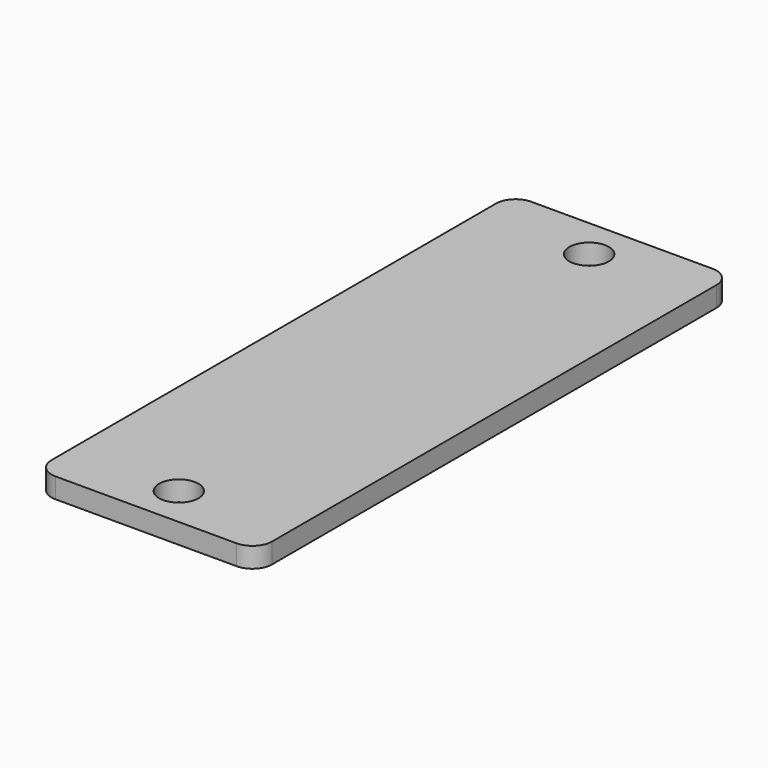
from build123d import *

# Parameters (mm, degrees)
F0_R     = 1.5875
F1_DEPTH = 1.6256


with BuildPart() as f1:
    # F0 (on Top) → F1 (new body)
    with BuildSketch(Plane.XY):
        with BuildLine():
            Line((-7.3025, -23.9776), (7.3025, -23.9776))
            ThreePointArc((7.3025, -23.9776), (8.425032, -23.512632), (8.89, -22.3901))
            Line((8.89, -22.3901), (8.89, 22.3901))
            ThreePointArc((8.89, 22.3901), (8.425032, 23.512632), (7.3025, 23.9776))
            Line((7.3025, 23.9776), (-7.3025, 23.9776))
            ThreePointArc((-7.3025, 23.9776), (-8.425032, 23.512632), (-8.89, 22.3901))
            Line((-8.89, 22.3901), (-8.89, -22.3901))
            ThreePointArc((-8.89, -22.3901), (-8.425032, -23.512632), (-7.3025, -23.9776))
        make_face()
        with Locations((0, -20.6756)):
            Circle(F0_R, mode=Mode.SUBTRACT)
        with Locations((0, 20.6756)):
            Circle(F0_R, mode=Mode.SUBTRACT)
    extrude(amount=-F1_DEPTH)


solid = f1.part
